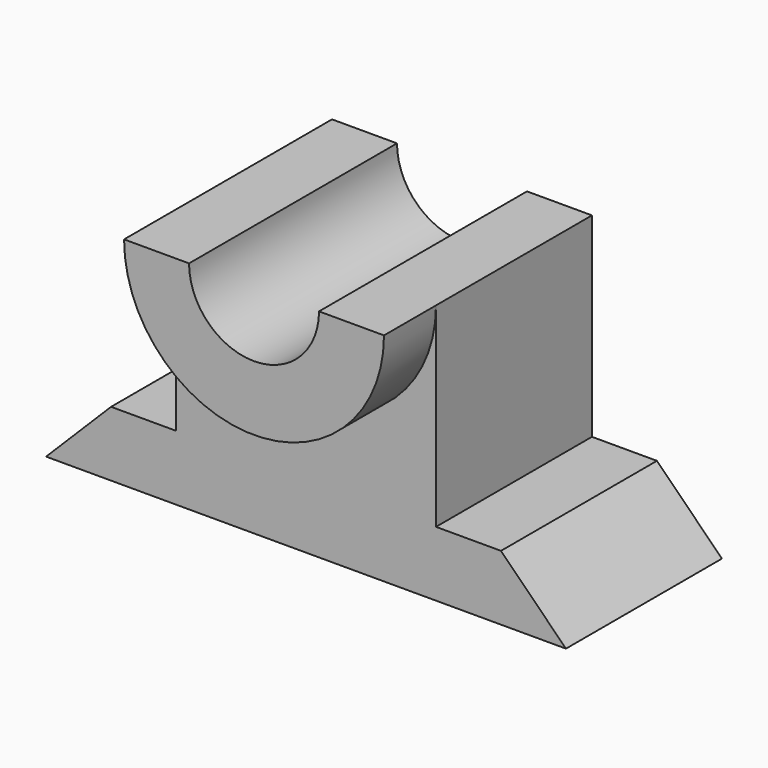
from build123d import *

# Parameters (mm, degrees)
F1_DEPTH = 30
F3_DEPTH = 10
F4_DEPTH = 35


with BuildPart() as f1:
    # F0 (on Front) → F1 (new body)
    with BuildSketch(Plane.XZ):
        Polygon((10, 10), (0, 0), (80, 0), (70, 10), (60, 10), (60, 40), (20, 40), (20, 10), align=None)
    extrude(amount=F1_DEPTH)

    # F2 (on face) → F3 (join)
    with BuildSketch(Plane.XZ.offset(30)):
        with BuildLine():
            Line((30, 40), (20, 40))
            ThreePointArc((20, 40), (40, 20), (60, 40))
            Line((60, 40), (50, 40))
            ThreePointArc((50, 40), (40, 30), (30, 40))
        make_face()
    extrude(amount=F3_DEPTH)

    # F4 (cut): a face of the model
    f4_faces = [f1.faces().sort_by_distance(p)[0] for p in [
        (40, -30, 35.7558681842),
    ]]
    extrude(f4_faces, amount=-F4_DEPTH, mode=Mode.SUBTRACT)


solid = f1.part
